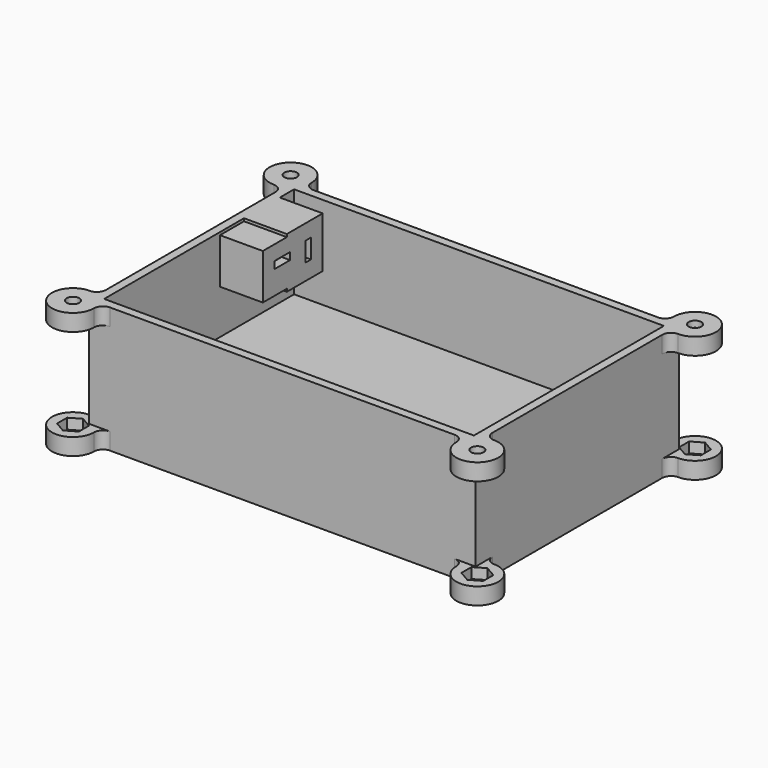
from build123d import *

# Parameters (mm, degrees)
PAD011_DEPTH            = 4
SKETCH073_W             = 60.5
SKETCH073_H             = 92
PAD012_DEPTH            = 22
POCKET017_DEPTH         = 2.5
SKETCH074_R             = 1.5
POCKET018_DEPTH         = 1.5
PAD013_DEPTH            = 4
SKETCH076_W             = 56.5
SKETCH076_H             = 88
POCKET019_DEPTH         = 22
SKETCH077_R             = 2.55
POCKET020_DEPTH         = 2.5
SKETCH078_R             = 1.5
POCKET021_DEPTH         = 1.5
PAD042_DEPTH            = 10.2
POCKET056_DEPTH         = 10.2
SKETCH111_W             = 1.7
SKETCH111_H             = 4.6
SKETCH111_W_2           = 4.6
SKETCH111_H_2           = 1.7
POCKET057_DEPTH         = 2
BODY004_PLACEMENT_ANGLE = 270


with BuildPart() as part:
    # Sketch071 → Pad011 (new body)
    with BuildSketch(Plane.XY):
        with BuildLine():
            ThreePointArc((-27.37132, 48.12132), (-35.906854, 51.656854), (-32.37132, 43.12132))
            ThreePointArc((-30.25, 41), (-30.87132, 42.5), (-32.37132, 43.12132))
            Line((-30.25, 41), (-30.25, -41))
            ThreePointArc((-32.37132, -43.12132), (-30.87132, -42.5), (-30.25, -41))
            ThreePointArc((-32.37132, -43.12132), (-35.906854, -51.656854), (-27.37132, -48.12132))
            ThreePointArc((-25.25, -46), (-26.75, -46.62132), (-27.37132, -48.12132))
            Line((-25.25, -46), (25.25, -46))
            ThreePointArc((27.37132, -48.12132), (26.75, -46.62132), (25.25, -46))
            ThreePointArc((27.37132, -48.12132), (35.906854, -51.656854), (32.37132, -43.12132))
            ThreePointArc((30.25, -41), (30.87132, -42.5), (32.37132, -43.12132))
            Line((30.25, 41), (30.25, -41))
            ThreePointArc((32.37132, 43.12132), (30.87132, 42.5), (30.25, 41))
            ThreePointArc((32.37132, 43.12132), (35.906854, 51.656854), (27.37132, 48.12132))
            ThreePointArc((25.250016, 46), (26.750006, 46.621326), (27.37132, 48.12132))
            Line((-25.25, 46), (25.250016, 46))
            ThreePointArc((-27.37132, 48.12132), (-26.75, 46.62132), (-25.25, 46))
        make_face()
    extrude(amount=PAD011_DEPTH)

    # Sketch073 (on Face18 of Pad011) → Pad012 (join)
    with BuildSketch(Plane.XY.offset(4)):
        Rectangle(SKETCH073_W, SKETCH073_H)
    extrude(amount=PAD012_DEPTH)

    # Sketch072 (on Face4 of Pad012) → Pocket017 (cut)
    with BuildSketch(Plane.XY.offset(4)):
        Polygon((-30.87132, 50.718076), (-33.87132, 50.718076), (-35.37132, 48.12), (-33.87132, 45.521924), (-30.87132, 45.521924), (-29.37132, 48.12), align=None)
        Polygon((33.87132, 50.718076), (30.87132, 50.718076), (29.37132, 48.12), (30.87132, 45.521924), (33.87132, 45.521924), (35.37132, 48.12), align=None)
        Polygon((33.87132, -45.521924), (30.87132, -45.521924), (29.37132, -48.12), (30.87132, -50.718076), (33.87132, -50.718076), (35.37132, -48.12), align=None)
        Polygon((-30.87132, -45.521924), (-33.87132, -45.521924), (-35.37132, -48.12), (-33.87132, -50.718076), (-30.87132, -50.718076), (-29.37132, -48.12), align=None)
    extrude(amount=-POCKET017_DEPTH, mode=Mode.SUBTRACT)

    # Sketch074 (on Face35 of Pocket017) → Pocket018 (cut)
    with BuildSketch(Plane.XY.offset(1.5)):
        with Locations((-32.37132, 48.12)):
            Circle(SKETCH074_R)
        with Locations((32.37132, 48.12)):
            Circle(SKETCH074_R)
        with Locations((-32.37132, -48.12)):
            Circle(SKETCH074_R)
        with Locations((32.37132, -48.12)):
            Circle(SKETCH074_R)
    extrude(amount=-POCKET018_DEPTH, mode=Mode.SUBTRACT)

    # Sketch075 (on Face8 of Pocket018) → Pad013 (join)
    with BuildSketch(Plane.XY.offset(26)):
        with BuildLine():
            ThreePointArc((-27.37132, 48.12132), (-35.906854, 51.656854), (-32.37132, 43.12132))
            ThreePointArc((-30.25, 41), (-30.87132, 42.5), (-32.37132, 43.12132))
            Line((-30.25, 41), (-30.25, -41))
            ThreePointArc((-32.37132, -43.12132), (-30.87132, -42.5), (-30.25, -41))
            ThreePointArc((-32.37132, -43.12132), (-35.906854, -51.656854), (-27.37132, -48.12132))
            ThreePointArc((-25.25, -46), (-26.75, -46.62132), (-27.37132, -48.12132))
            Line((-25.25, -46), (25.25, -46))
            ThreePointArc((27.37132, -48.12132), (26.75, -46.62132), (25.25, -46))
            ThreePointArc((27.37132, -48.12132), (35.906854, -51.656854), (32.37132, -43.12132))
            ThreePointArc((30.25, -41), (30.87132, -42.5), (32.37132, -43.12132))
            Line((30.25, 41), (30.25, -41))
            ThreePointArc((32.37132, 43.12132), (30.87132, 42.5), (30.25, 41))
            ThreePointArc((32.37132, 43.12132), (35.906854, 51.656854), (27.37132, 48.12132))
            ThreePointArc((25.250016, 46), (26.750006, 46.621326), (27.37132, 48.12132))
            Line((-25.25, 46), (25.250016, 46))
            ThreePointArc((-27.37132, 48.12132), (-26.75, 46.62132), (-25.25, 46))
        make_face()
    extrude(amount=PAD013_DEPTH)

    # Sketch076 (on Face57 of Pad013) → Pocket019 (cut)
    with BuildSketch(Plane.XY.offset(30)):
        Rectangle(SKETCH076_W, SKETCH076_H)
    extrude(amount=-POCKET019_DEPTH, mode=Mode.SUBTRACT)

    # Sketch077 (on Face36 of Pocket019) → Pocket020 (cut)
    with BuildSketch(Plane(origin=(0, 0, 26), x_dir=(1, 0, 0), z_dir=(0, 0, -1))):
        with Locations((-32.37132, 48.12)):
            Circle(SKETCH077_R)
        with Locations((32.37132, 48.12)):
            Circle(SKETCH077_R)
        with Locations((-32.37132, -48.12)):
            Circle(SKETCH077_R)
        with Locations((32.37132, -48.12)):
            Circle(SKETCH077_R)
    extrude(amount=-POCKET020_DEPTH, mode=Mode.SUBTRACT)

    # Sketch078 (on Face10 of Pocket020) → Pocket021 (cut)
    with BuildSketch(Plane.XY.offset(30)):
        with Locations((-32.37132, 48.12)):
            Circle(SKETCH078_R)
        with Locations((32.37132, 48.12)):
            Circle(SKETCH078_R)
        with Locations((-32.37132, -48.12)):
            Circle(SKETCH078_R)
        with Locations((32.37132, -48.12)):
            Circle(SKETCH078_R)
    extrude(amount=-POCKET021_DEPTH, mode=Mode.SUBTRACT)

    # Sketch110 → Pad042 (join)
    with BuildSketch(Plane(origin=(0, -44, 0), x_dir=(-1, 0, 0), z_dir=(0, 1, 0))):
        Polygon((13.35, 17.9), (24, 17.9), (24, 30), (13.35, 30), (13.35, 29.35), (6.2, 29.35), (6.2, 18.55), (13.35, 18.55), align=None)
    extrude(amount=PAD042_DEPTH)

    # Sketch109 (on Face22 of Pocket021) → Pocket056 (cut)
    with BuildSketch(Plane.XZ.offset(46)):
        Polygon((-22, 28), (-15.35, 28), (-15.35, 27.35), (-8.2, 27.35), (-8.2, 20.55), (-15.35, 20.55), (-15.35, 19.9), (-22, 19.9), align=None)
    extrude(amount=-POCKET056_DEPTH, mode=Mode.SUBTRACT)

    # Sketch111 (on Face104 of Pocket056) → Pocket057 (cut)
    with BuildSketch(Plane.XZ.offset(35.8)):
        with Locations((-19.675, 24.05)):
            Rectangle(SKETCH111_W, SKETCH111_H)
        with Locations((-12, 25)):
            Rectangle(SKETCH111_W_2, SKETCH111_H_2)
    extrude(amount=-POCKET057_DEPTH, mode=Mode.SUBTRACT)


with BuildPart() as part_1:
    # Body004 placement: moved
    add(part.part.moved(Location((64, 0, -35))).rotate(Axis((64, 0, -35), (0, 0, 1)), BODY004_PLACEMENT_ANGLE))


solid = part_1.part
